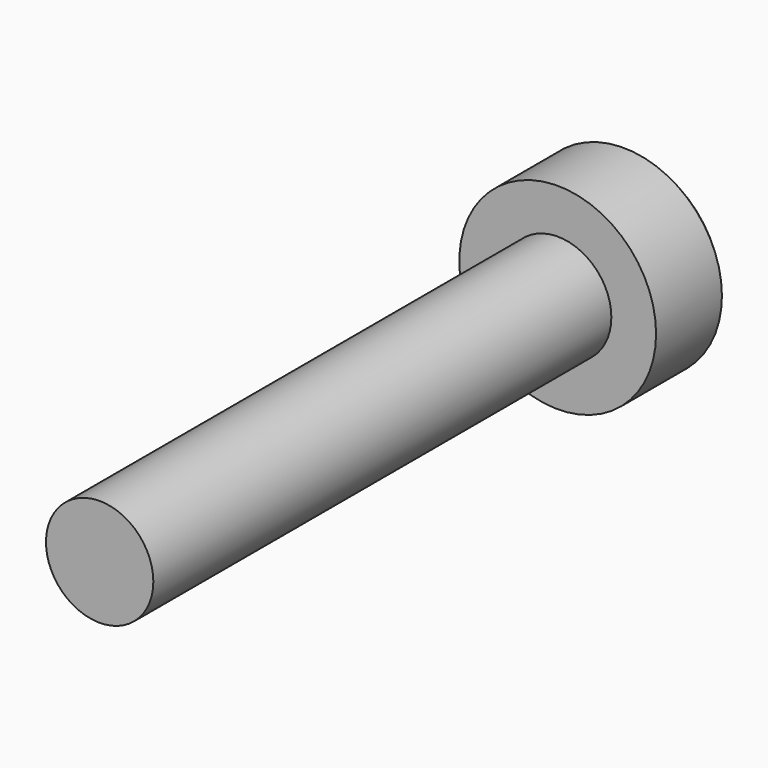
from build123d import *

# Parameters (mm, degrees)
F0_R     = 2.75
F1_DEPTH = 2.5
F3_DEPTH = 1.75
F4_SIZE  = 0.2
F5_R     = 1.5
F6_DEPTH = 16


with BuildPart() as f1:
    # F0 (on Front) → F1 (new body)
    with BuildSketch(Plane.XZ):
        Circle(F0_R)
    extrude(amount=F1_DEPTH)

    # F2 (on face) → F3 (cut)
    with BuildSketch(Plane(origin=(0, 0, 0), x_dir=(-1, 0, 0), z_dir=(0, 1, 0))):
        Polygon((1.446581, 0.145307), (0.597451, 1.325429), (-0.84913, 1.180122), (-1.446581, -0.145307), (-0.597451, -1.325429), (0.84913, -1.180122), align=None)
    extrude(amount=-F3_DEPTH, mode=Mode.SUBTRACT)

    # F4
    f4_edges = [f1.edges().sort_by_distance(p)[0] for p in [
        (-2.75, 0, 0),
    ]]
    chamfer(f4_edges, length=F4_SIZE)

    # F5 (on face) → F6 (join)
    with BuildSketch(Plane.XZ.offset(2.5)):
        Circle(F5_R)
    extrude(amount=F6_DEPTH)


solid = f1.part
